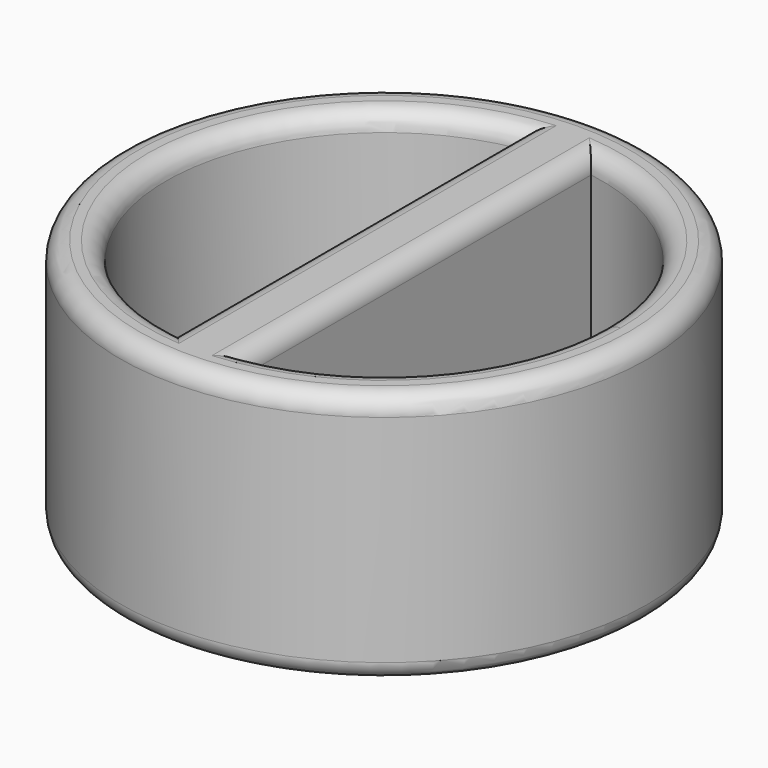
from build123d import *

# Parameters (mm, degrees)
F0_R     = 73.025
F1_DEPTH = 69.85
F3_DEPTH = 68.834
F4_R     = 5.08


with BuildPart() as f1:
    # F0 (on Top) → F1 (new body)
    with BuildSketch(Plane.XY):
        Circle(F0_R)
    extrude(amount=F1_DEPTH)

    # F2 (on face) → F3 (cut)
    with BuildSketch(Plane.XY.offset(69.85)):
        with BuildLine():
            Line((-9.652, 0), (-9.652, 59.5478338901))
            ThreePointArc((-9.652, 59.5478338901), (-60.325, 0), (-9.652, -59.5478338901))
            Line((-9.652, -59.5478338901), (-9.652, 0))
        make_face()
        with BuildLine():
            ThreePointArc((9.652, -59.5478338901), (45.9421512611, -39.0950682631), (60.325, 0))
            ThreePointArc((60.325, 0), (45.9421512611, 39.0950682631), (9.652, 59.5478338901))
            Line((9.652, 59.5478338901), (9.652, 0))
            Line((9.652, 0), (9.652, -59.5478338901))
        make_face()
    extrude(amount=-F3_DEPTH, mode=Mode.SUBTRACT)

    # F4
    f4_edges = [f1.edges().sort_by_distance(p)[0] for p in [
        (-73.025, 0, 69.85),
        (9.652, 0, 69.85),
        (60.325, 0, 69.85),
        (-9.652, 0, 69.85),
        (-60.325, 0, 69.85),
        (-73.025, 0, 0),
    ]]
    fillet(f4_edges, radius=F4_R)


solid = f1.part
